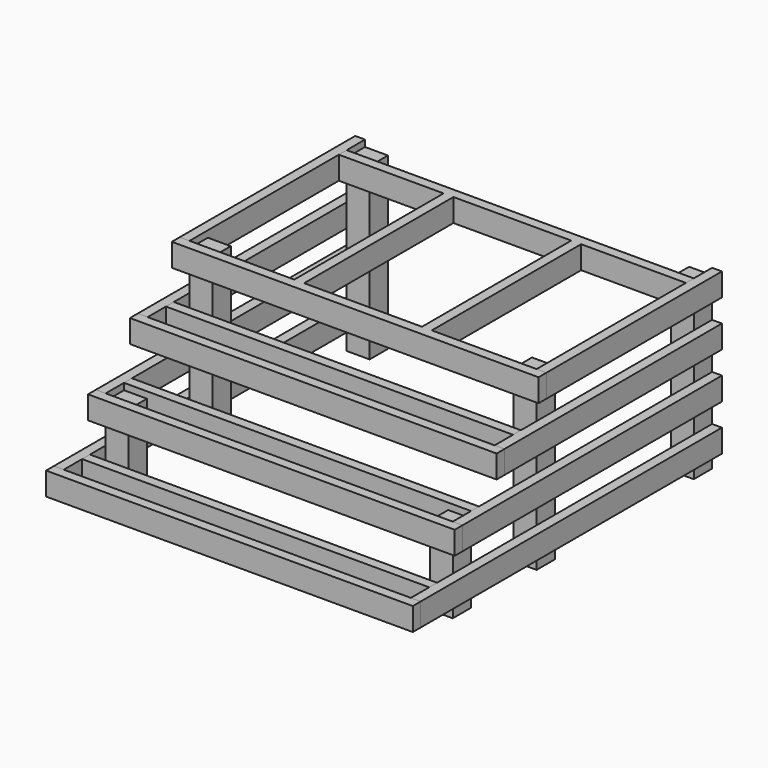
from build123d import *

# Parameters (mm, degrees)
F0_W          = 88.9
F0_H          = 88.9
F1_DEPTH      = 660.4
F2_W          = 370.2267042065
F2_H          = 403.1921241929
F3_DEPTH      = 1183.64
F3_DEPTH_BACK = 1132.84
F4_W          = 38.1
F4_H          = 88.9
F5_DEPTH      = 1257.3
F5_DEPTH_BACK = 203.2
F7_DEPTH      = 2004.06
F8_W          = 38.1
F8_H          = 723.9
F9_DEPTH      = 88.9
F10_W         = 38.1
F10_H         = 88.9
F11_DEPTH     = 1422.4
F12_W         = 38.1
F12_H         = 88.9
F13_DEPTH     = 1346.2


with BuildPart() as f1:
    # F0 (on Top) → F1 (new body)
    with BuildSketch(Plane.XY):
        with Locations((-625.8649276083, 405.0910130501)):
            Rectangle(F0_W, F0_H)
    extrude(amount=F1_DEPTH)


with BuildPart() as f1b:
    # F0 (on Top) → F1, piece 2 (new body)
    with BuildSketch(Plane.XY):
        with Locations((631.4350723917, 405.0910130501)):
            Rectangle(F0_W, F0_H)
    extrude(amount=F1_DEPTH)


with BuildPart() as f1c:
    # F0 (on Top) → F1, piece 3 (new body)
    with BuildSketch(Plane.XY):
        with Locations((-625.8649276083, -356.9089869499)):
            Rectangle(F0_W, F0_H)
    extrude(amount=F1_DEPTH)


with BuildPart() as f1d:
    # F0 (on Top) → F1, piece 4 (new body)
    with BuildSketch(Plane.XY):
        with Locations((631.4350723917, -356.9089869499)):
            Rectangle(F0_W, F0_H)
    extrude(amount=F1_DEPTH)


with BuildPart() as f1e:
    # F0 (on Top) → F1, piece 5 (new body)
    with BuildSketch(Plane.XY):
        with Locations((-625.8649276083, -763.3089869499)):
            Rectangle(F0_W, F0_H)
    extrude(amount=F1_DEPTH)


with BuildPart() as f1f:
    # F0 (on Top) → F1, piece 6 (new body)
    with BuildSketch(Plane.XY):
        with Locations((631.4350723917, -763.3089869499)):
            Rectangle(F0_W, F0_H)
    extrude(amount=F1_DEPTH)


with BuildPart() as f3_tool:
    # F2 (on Right) → F3 (new body, two sides)
    with BuildSketch(Plane.YZ) as f3_sk:
        with Locations((-782.7632725239, 506.3960620965)):
            Rectangle(F2_W, F2_H)
    extrude(amount=-F3_DEPTH)
    extrude(f3_sk.sketch, amount=F3_DEPTH_BACK)


with BuildPart() as f1e_1:
    add(f1e.part)

    # F3: cut by f3_tool
    add(f3_tool.part, mode=Mode.SUBTRACT)


with BuildPart() as f1f_1:
    add(f1f.part)

    # F3: cut by f3_tool
    add(f3_tool.part, mode=Mode.SUBTRACT)


with BuildPart() as f5:
    # F4 (on face) → F5 (new body, two sides)
    with BuildSketch(Plane.XZ.offset(807.7589869499)) as f5_sk:
        with Locations((-689.3649276083, 641.35)):
            Rectangle(F4_W, F4_H)
    extrude(amount=-F5_DEPTH)
    extrude(f5_sk.sketch, amount=F5_DEPTH_BACK)


with BuildPart() as f5b:
    # F4 (on face) → F5, piece 2 (new body, two sides)
    with BuildSketch(Plane.XZ.offset(807.7589869499)) as f5_2_sk:
        with Locations((694.9350723917, 641.35)):
            Rectangle(F4_W, F4_H)
    extrude(amount=-F5_DEPTH)
    extrude(f5_2_sk.sketch, amount=F5_DEPTH_BACK)


with BuildPart() as f5c:
    # F4 (on face) → F5, piece 3 (new body, two sides)
    with BuildSketch(Plane.XZ.offset(807.7589869499)) as f5_3_sk:
        with Locations((-689.3649276083, 285.75)):
            Rectangle(F4_W, F4_H)
    extrude(amount=-F5_DEPTH)
    extrude(f5_3_sk.sketch, amount=F5_DEPTH_BACK)


with BuildPart() as f5d:
    # F4 (on face) → F5, piece 4 (new body, two sides)
    with BuildSketch(Plane.XZ.offset(807.7589869499)) as f5_4_sk:
        with Locations((694.9350723917, 285.75)):
            Rectangle(F4_W, F4_H)
    extrude(amount=-F5_DEPTH)
    extrude(f5_4_sk.sketch, amount=F5_DEPTH_BACK)


with BuildPart() as f5e:
    # F4 (on face) → F5, piece 5 (new body, two sides)
    with BuildSketch(Plane.XZ.offset(807.7589869499)) as f5_5_sk:
        with Locations((-689.3649276083, 107.95)):
            Rectangle(F4_W, F4_H)
    extrude(amount=-F5_DEPTH)
    extrude(f5_5_sk.sketch, amount=F5_DEPTH_BACK)


with BuildPart() as f5f:
    # F4 (on face) → F5, piece 6 (new body, two sides)
    with BuildSketch(Plane.XZ.offset(807.7589869499)) as f5_6_sk:
        with Locations((694.9350723917, 107.95)):
            Rectangle(F4_W, F4_H)
    extrude(amount=-F5_DEPTH)
    extrude(f5_6_sk.sketch, amount=F5_DEPTH_BACK)


with BuildPart() as f5g:
    # F4 (on face) → F5, piece 7 (new body, two sides)
    with BuildSketch(Plane.XZ.offset(807.7589869499)) as f5_7_sk:
        with Locations((-689.3649276083, 463.55)):
            Rectangle(F4_W, F4_H)
    extrude(amount=-F5_DEPTH)
    extrude(f5_7_sk.sketch, amount=F5_DEPTH_BACK)


with BuildPart() as f5h:
    # F4 (on face) → F5, piece 8 (new body, two sides)
    with BuildSketch(Plane.XZ.offset(807.7589869499)) as f5_8_sk:
        with Locations((694.9350723917, 463.55)):
            Rectangle(F4_W, F4_H)
    extrude(amount=-F5_DEPTH)
    extrude(f5_8_sk.sketch, amount=F5_DEPTH_BACK)


with BuildPart() as f7_tool:
    # F6 (on face) → F7 (new body)
    with BuildSketch(Plane(origin=(-708.4149276083, 0, 0), x_dir=(0, -1, 0), z_dir=(-1, 0, 0))):
        Polygon((1041.3569460869, 722.2948670387), (401.3589869499, 719.6282148361), (401.3589869499, 535.6287360191), (604.5589869499, 535.6287360191), (604.5589869499, 378.2958984375), (807.7589869499, 378.2958984375), (807.7589869499, 220.9630459547), (1041.3569460869, 220.9630459547), align=None)
    extrude(amount=-F7_DEPTH)


with BuildPart() as f5_1:
    add(f5.part)

    # F7: cut by f7_tool
    add(f7_tool.part, mode=Mode.SUBTRACT)


with BuildPart() as f5b_1:
    add(f5b.part)

    # F7: cut by f7_tool
    add(f7_tool.part, mode=Mode.SUBTRACT)


with BuildPart() as f5c_1:
    add(f5c.part)

    # F7: cut by f7_tool
    add(f7_tool.part, mode=Mode.SUBTRACT)


with BuildPart() as f5d_1:
    add(f5d.part)

    # F7: cut by f7_tool
    add(f7_tool.part, mode=Mode.SUBTRACT)


with BuildPart() as f5g_1:
    add(f5g.part)

    # F7: cut by f7_tool
    add(f7_tool.part, mode=Mode.SUBTRACT)


with BuildPart() as f5h_1:
    add(f5h.part)

    # F7: cut by f7_tool
    add(f7_tool.part, mode=Mode.SUBTRACT)


with BuildPart() as f9:
    # F8 (on face) → F9 (new body)
    with BuildSketch(Plane.XY.offset(685.8)):
        Polygon((675.8850723917, 360.6410130501), (-670.3149276083, 360.6410130501), (-670.3149276083, 322.5410130501), (-263.9149276083, 322.5410130501), (-225.8149276083, 322.5410130501), (231.3850723917, 322.5410130501), (269.4850723917, 322.5410130501), (675.8850723917, 322.5410130501), align=None)
        with Locations((-244.8649276083, -39.4089869499)):
            Rectangle(F8_W, F8_H)
        with Locations((250.4350723917, -39.4089869499)):
            Rectangle(F8_W, F8_H)
        Polygon((-225.8149276083, -401.3589869499), (-263.9149276083, -401.3589869499), (-708.4149276083, -401.3589869499), (-708.4149276083, -439.4589869499), (713.9850723917, -439.4589869499), (713.9850723917, -401.3589869499), (269.4850723917, -401.3589869499), (231.3850723917, -401.3589869499), align=None)
    extrude(amount=-F9_DEPTH)


with BuildPart() as f11:
    # F10 (on face) → F11 (new body, through all)
    with BuildSketch(Plane(origin=(-708.4149276083, 0, 0), x_dir=(0, -1, 0), z_dir=(-1, 0, 0))):
        with Locations((623.6089869499, 463.55)):
            Rectangle(F10_W, F10_H)
    extrude(amount=-F11_DEPTH)


with BuildPart() as f11b:
    # F10 (on face) → F11, piece 2 (new body, through all)
    with BuildSketch(Plane(origin=(-708.4149276083, 0, 0), x_dir=(0, -1, 0), z_dir=(-1, 0, 0))):
        with Locations((826.8089869499, 285.75)):
            Rectangle(F10_W, F10_H)
    extrude(amount=-F11_DEPTH)


with BuildPart() as f11c:
    # F10 (on face) → F11, piece 3 (new body, through all)
    with BuildSketch(Plane(origin=(-708.4149276083, 0, 0), x_dir=(0, -1, 0), z_dir=(-1, 0, 0))):
        with Locations((1030.0089869499, 107.95)):
            Rectangle(F10_W, F10_H)
    extrude(amount=-F11_DEPTH)


with BuildPart() as f13:
    # F12 (on face) → F13 (new body, through all)
    with BuildSketch(Plane(origin=(675.8850723917, 0, 0), x_dir=(0, -1, 0), z_dir=(-1, 0, 0))):
        with Locations((496.6089869499, 463.55)):
            Rectangle(F12_W, F12_H)
    extrude(amount=F13_DEPTH)


with BuildPart() as f13b:
    # F12 (on face) → F13, piece 2 (new body, through all)
    with BuildSketch(Plane(origin=(675.8850723917, 0, 0), x_dir=(0, -1, 0), z_dir=(-1, 0, 0))):
        with Locations((903.0089869499, 107.95)):
            Rectangle(F12_W, F12_H)
    extrude(amount=F13_DEPTH)


with BuildPart() as f13c:
    # F12 (on face) → F13, piece 3 (new body, through all)
    with BuildSketch(Plane(origin=(675.8850723917, 0, 0), x_dir=(0, -1, 0), z_dir=(-1, 0, 0))):
        with Locations((699.8089869499, 285.75)):
            Rectangle(F12_W, F12_H)
    extrude(amount=F13_DEPTH)


solid = Compound([f1.part, f1b.part, f1c.part, f1d.part, f1e_1.part, f1f_1.part, f5e.part, f5f.part, f5_1.part, f5b_1.part, f5c_1.part, f5d_1.part, f5g_1.part, f5h_1.part, f9.part, f11.part, f11b.part, f11c.part, f13.part, f13b.part, f13c.part])
